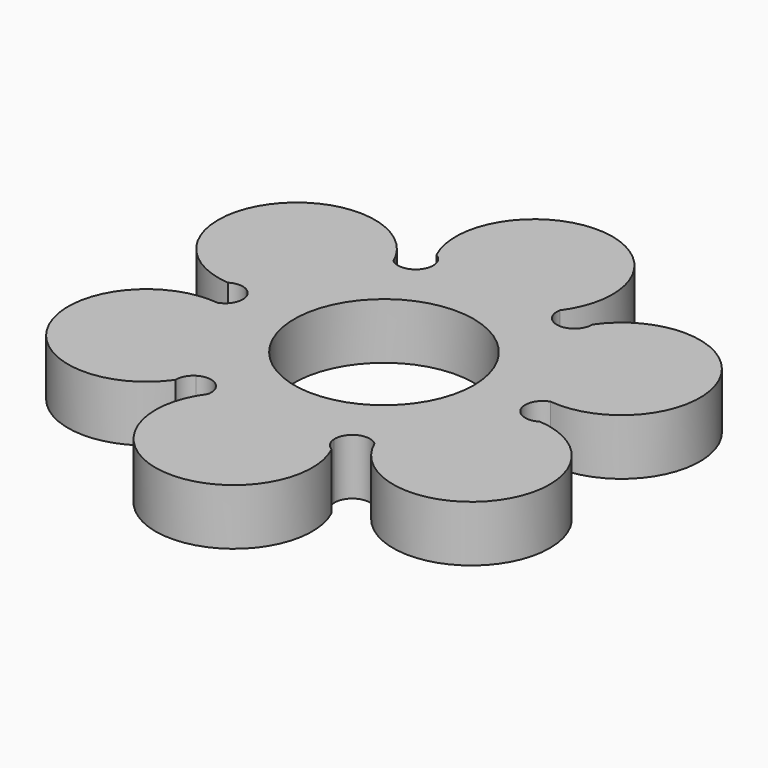
from build123d import *

# Parameters (mm, degrees)
F0_R     = 11.2
F1_DEPTH = 7


with BuildPart() as f1:
    # F0 (on Top) → F1 (new body)
    with BuildSketch(Plane.XY):
        with BuildLine():
            ThreePointArc((11.196886, 15.327261), (8.779101, 15.376875), (7.872624, 17.618849))
            ThreePointArc((7.872624, 17.618849), (0.926211, 33.161268), (-8.825863, 19.207182))
            ThreePointArc((-8.825863, 19.207182), (-8.005839, 18.436288), (-7.675354, 17.360418))
            ThreePointArc((-7.675354, 17.360418), (-8.927214, 15.291362), (-11.322058, 15.627317))
            ThreePointArc((-11.322058, 15.627317), (-28.255395, 17.382756), (-21.046839, 1.96017))
            ThreePointArc((-21.046839, 1.96017), (-19.969213, 2.284884), (-18.87224, 2.033157))
            ThreePointArc((-18.87224, 2.033157), (-17.706315, -0.085513), (-19.194683, -1.991532))
            ThreePointArc((-19.194683, -1.991532), (-29.181606, -15.778512), (-12.220976, -17.247013))
            ThreePointArc((-12.220976, -17.247013), (-11.963374, -16.151404), (-11.196886, -15.327261))
            ThreePointArc((-11.196886, -15.327261), (-8.779101, -15.376875), (-7.872624, -17.618849))
            ThreePointArc((-7.872624, -17.618849), (-0.926211, -33.161268), (8.825863, -19.207182))
            ThreePointArc((8.825863, -19.207182), (8.005839, -18.436288), (7.675354, -17.360418))
            ThreePointArc((7.675354, -17.360418), (8.927214, -15.291362), (11.322058, -15.627317))
            ThreePointArc((11.322058, -15.627317), (28.255395, -17.382756), (21.046839, -1.96017))
            ThreePointArc((21.046839, -1.96017), (19.969213, -2.284884), (18.87224, -2.033157))
            ThreePointArc((18.87224, -2.033157), (17.706315, 0.085513), (19.194683, 1.991532))
            ThreePointArc((19.194683, 1.991532), (29.181606, 15.778512), (12.220976, 17.247013))
            ThreePointArc((12.220976, 17.247013), (11.963374, 16.151404), (11.196886, 15.327261))
        make_face()
        Circle(F0_R, mode=Mode.SUBTRACT)
    extrude(amount=F1_DEPTH)


solid = f1.part
